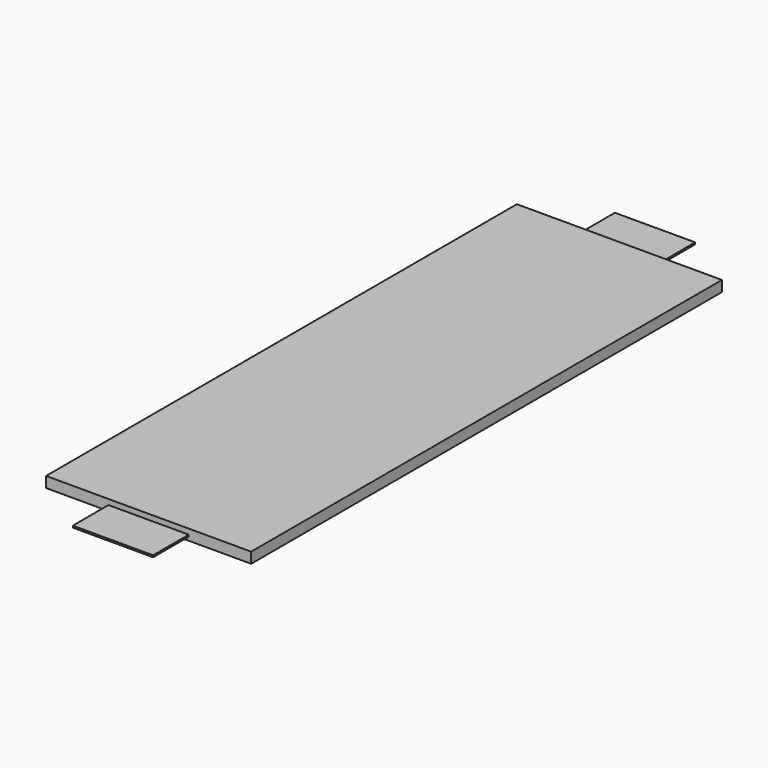
from build123d import *

# Parameters (mm, degrees)
BOX004_W     = 45
BOX004_H     = 25
BOX004_DEPTH = 1
BOX001_W     = 115
BOX001_H     = 330
BOX001_DEPTH = 6
BOX005_W     = 45
BOX005_H     = 25
BOX005_DEPTH = 1


with BuildPart() as box004:
    # Box004 → Box004 (new body)
    with BuildSketch(Plane(origin=(35, -25, 2), x_dir=(1, 0, 0), z_dir=(0, 0, 1))):
        with Locations((22.5, 12.5)):
            Rectangle(BOX004_W, BOX004_H)
    extrude(amount=BOX004_DEPTH)


with BuildPart() as box001:
    # Box001 → Box001 (new body)
    with BuildSketch(Plane.XY):
        with Locations((57.5, 165)):
            Rectangle(BOX001_W, BOX001_H)
    extrude(amount=BOX001_DEPTH)


with BuildPart() as fusion003:
    # Box005 → Box005 (new body)
    with BuildSketch(Plane(origin=(35, 330, 2), x_dir=(1, 0, 0), z_dir=(0, 0, 1))):
        with Locations((22.5, 12.5)):
            Rectangle(BOX005_W, BOX005_H)
    extrude(amount=BOX005_DEPTH)

    # Fusion003: union Box004, Box001
    add(box004.part)
    add(box001.part)


solid = fusion003.part
